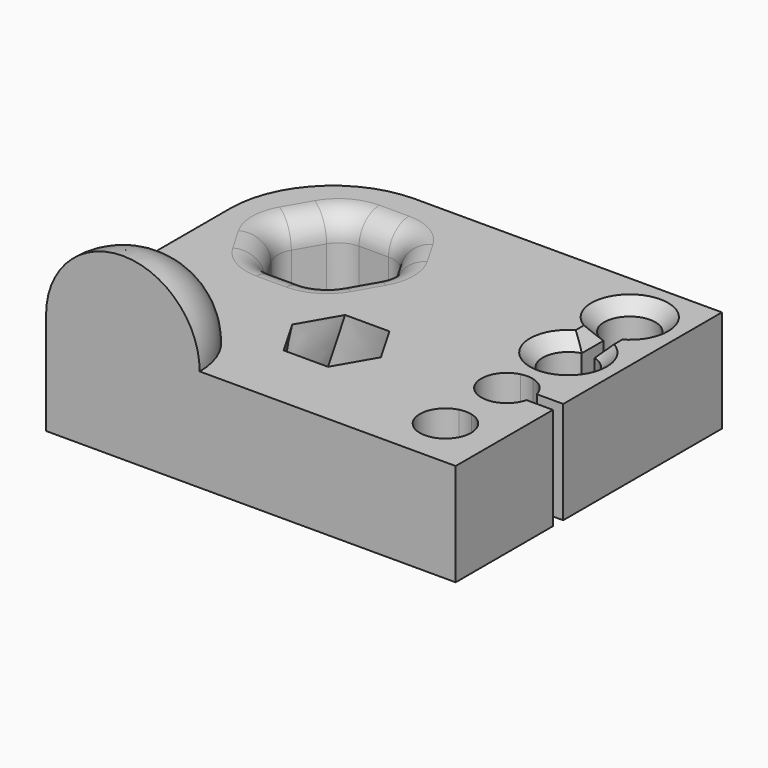
from build123d import *

# Parameters (mm, degrees)
F1_DEPTH = 12.7
F2_SIZE  = 1.5875
F3_R     = 3.175
F8_ANGLE = 90


with BuildPart() as f1:
    # F0 (on Top) → F1 (new body)
    with BuildSketch(Plane.XY):
        with BuildLine():
            Line((25.4, 20.6375), (-12.7, 20.6375))
            ThreePointArc((-12.7, 20.6375), (-21.6802561211, 16.9177561211), (-25.4, 7.9375))
            Line((-25.4, 7.9375), (-25.4, -20.6375))
            Line((-25.4, -20.6375), (25.4, -20.6375))
            Line((25.4, -20.6375), (25.4, -5.55625))
            Line((25.4, -5.55625), (22.1241805311, -5.55625))
            ThreePointArc((22.1241805311, -5.55625), (21.2950640303, -7.0075640303), (19.84375, -7.8366805311))
            Line((19.84375, -7.8366805311), (19.84375, -11.2133194689))
            ThreePointArc((19.84375, -11.2133194689), (21.5600578928, -12.3432175167), (22.225, -14.2875))
            ThreePointArc((22.225, -14.2875), (17.1057175167, -16.7975578928), (18.25625, -11.2133194689))
            Line((18.25625, -11.2133194689), (18.25625, -7.8366805311))
            ThreePointArc((18.25625, -7.8366805311), (15.875, -4.7625), (18.25625, -1.6883194689))
            Line((18.25625, -1.6883194689), (18.25625, 1.6883194689))
            ThreePointArc((18.25625, 1.6883194689), (15.875, 4.7625), (18.25625, 7.8366805311))
            Line((18.25625, 7.8366805311), (18.25625, 11.2133194689))
            ThreePointArc((18.25625, 11.2133194689), (17.1057175167, 16.7975578928), (22.225, 14.2875))
            ThreePointArc((22.225, 14.2875), (21.5600578928, 12.3432175167), (19.84375, 11.2133194689))
            Line((19.84375, 11.2133194689), (19.84375, 7.8366805311))
            ThreePointArc((19.84375, 7.8366805311), (21.5600578928, 6.7067824833), (22.225, 4.7625))
            ThreePointArc((22.225, 4.7625), (21.5600578928, 2.8182175167), (19.84375, 1.6883194689))
            Line((19.84375, 1.6883194689), (19.84375, -1.6883194689))
            ThreePointArc((19.84375, -1.6883194689), (21.2950640303, -2.5174359697), (22.1241805311, -3.96875))
            Line((22.1241805311, -3.96875), (25.4, -3.96875))
            Line((25.4, -3.96875), (25.4, 20.6375))
        make_face()
        Polygon((-5.3676515813, 7.9375), (-9.0338257906, 1.5875), (-16.3661742094, 1.5875), (-20.0323484187, 7.9375), (-16.3661742094, 14.2875), (-9.0338257906, 14.2875), align=None, mode=Mode.SUBTRACT)
        with BuildLine():
            Line((19.84375, -11.2133194689), (19.84375, -7.8366805311))
            ThreePointArc((19.84375, -7.8366805311), (19.05, -7.9375), (18.25625, -7.8366805311))
            Line((18.25625, -7.8366805311), (18.25625, -11.2133194689))
            ThreePointArc((18.25625, -11.2133194689), (19.05, -11.1125), (19.84375, -11.2133194689))
        make_face()
        with BuildLine():
            ThreePointArc((18.25625, -1.6883194689), (19.05, -1.5875), (19.84375, -1.6883194689))
            Line((19.84375, -1.6883194689), (19.84375, 1.6883194689))
            ThreePointArc((19.84375, 1.6883194689), (19.05, 1.5875), (18.25625, 1.6883194689))
            Line((18.25625, 1.6883194689), (18.25625, -1.6883194689))
        make_face()
    extrude(amount=F1_DEPTH)

    # F2
    f2_edges = [f1.edges().sort_by_distance(p)[0] for p in [
        (19.05, 1.5875, 12.7),
        (19.05, 17.4625, 12.7),
        (18.25625, 9.525, 12.7),
        (19.84375, 9.525, 12.7),
    ]]
    chamfer(f2_edges, length=F2_SIZE)

    # F3
    f3_edges = [f1.edges().sort_by_distance(p)[0] for p in [
        (-7.200739, 4.7625, 12.7),
        (-7.200739, 11.1125, 12.7),
        (-12.7, 14.2875, 12.7),
        (-18.199261, 11.1125, 12.7),
        (-18.199261, 4.7625, 12.7),
        (-12.7, 1.5875, 12.7),
        (-16.366174, 14.2875, 6.35),
        (-20.032348, 7.9375, 6.35),
        (-16.366174, 1.5875, 6.35),
        (-9.033826, 1.5875, 6.35),
        (-5.367652, 7.9375, 6.35),
        (-9.033826, 14.2875, 6.35),
    ]]
    fillet(f3_edges, radius=F3_R)

    # F5 (on face) → F6 section 0
    with BuildSketch(Plane(origin=(0, 0, 0), x_dir=(1, 0, 0), z_dir=(0, 0, -1))):
        Polygon((-6.35, 11.0185455743), (-6.35, 3.6861971556), (0, 0.0200229463), (6.35, 3.6861971556), (6.35, 11.0185455743), (0, 14.6847197837), align=None)
    # F4 (on face) → F6 section 1
    with BuildSketch(Plane.XY.offset(12.7)):
        Polygon((2.749630657, -2.589871365), (-2.749630657, -2.589871365), (-5.499261314, -7.352371365), (-2.749630657, -12.114871365), (2.749630657, -12.114871365), (5.499261314, -7.352371365), align=None)
    loft(mode=Mode.SUBTRACT)

    # F7 (on face) → F8 (revolve)
    with BuildSketch(Plane.XZ.offset(20.6375)):
        with BuildLine():
            Line((-25.4, 12.7), (-6.35, 12.7))
            ThreePointArc((-6.35, 12.7), (-15.875, 22.225), (-25.4, 12.7))
        make_face()
    revolve(axis=Axis((-15.875, -20.6375, 12.7), (-1, 0, 0)), revolution_arc=F8_ANGLE)


solid = f1.part
